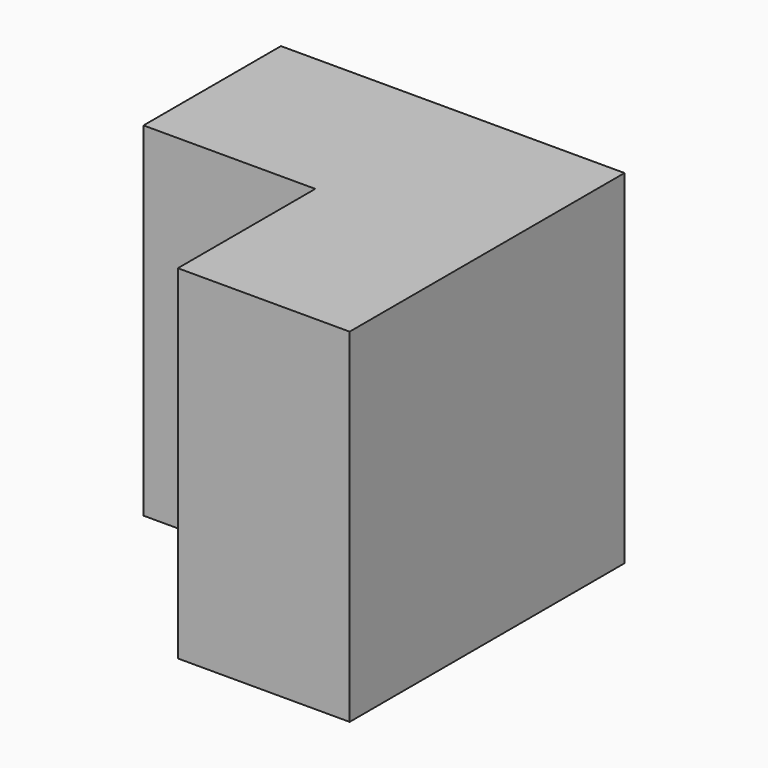
from build123d import *

# Parameters (mm, degrees)
F0_W     = 38.1
F0_H     = 19.05
F1_DEPTH = 19.05
F2_W     = 19.05
F2_H     = 19.05
F3_DEPTH = 19.05
F4_DEPTH = 19.05


with BuildPart() as f1:
    # F0 (on Top) → F1 (new body)
    with BuildSketch(Plane.XY):
        with Locations((-19.05, -9.525)):
            Rectangle(F0_W, F0_H)
    extrude(amount=-F1_DEPTH)

    # F2 (on face) → F3 (join)
    with BuildSketch(Plane.XZ.offset(19.05)):
        with Locations((-9.525, -9.525)):
            Rectangle(F2_W, F2_H)
    extrude(amount=F3_DEPTH)

    # F3_face (on face) → F4 (join)
    with BuildSketch(Plane(origin=(-15.875, -15.875, -19.05), x_dir=(1, 0, 0), z_dir=(0, 0, -1))):
        Polygon((-22.225, -15.875), (15.875, -15.875), (15.875, 22.225), (-3.175, 22.225), (-3.175, 3.175), (-22.225, 3.175), align=None)
    extrude(amount=F4_DEPTH)


solid = f1.part
